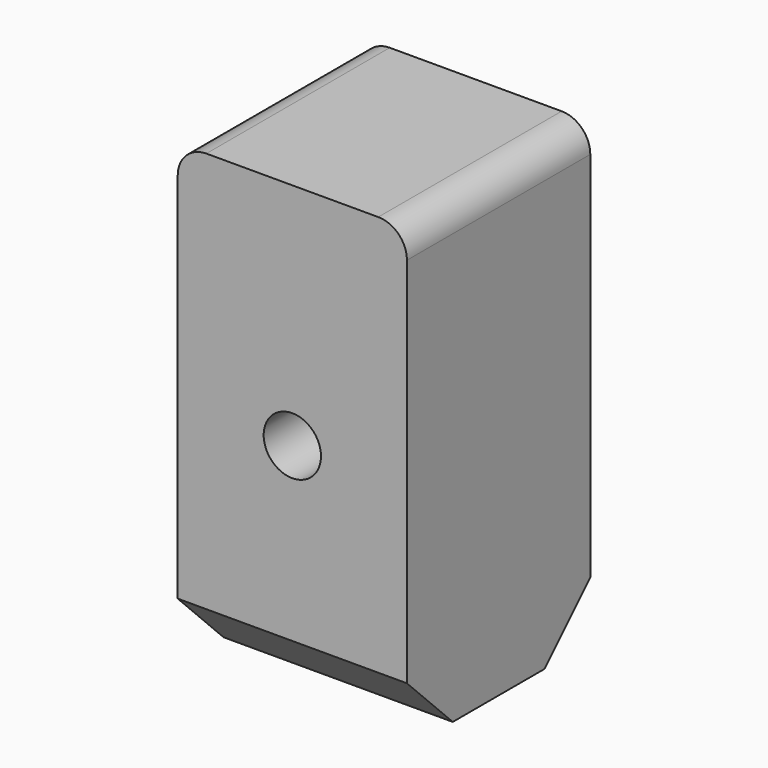
from build123d import *

# Parameters (mm, degrees)
F0_W     = 200
F0_H     = 400
F1_DEPTH = 200
F2_R     = 25
F3_DEPTH = 200.001
F4_R     = 25
F5_SIZE  = 50


with BuildPart() as f1:
    # F0 (on Front) → F1 (new body)
    with BuildSketch(Plane.XZ):
        Rectangle(F0_W, F0_H)
    extrude(amount=F1_DEPTH)

    # F2 (on face) → F3 (cut, through all)
    with BuildSketch(Plane.XZ.offset(200)):
        Circle(F2_R)
    extrude(amount=-F3_DEPTH, mode=Mode.SUBTRACT)

    # F4
    f4_edges = [f1.edges().sort_by_distance(p)[0] for p in [
        (100, -100, 200),
        (-100, -100, 200),
    ]]
    fillet(f4_edges, radius=F4_R)

    # F5
    f5_edges = [f1.edges().sort_by_distance(p)[0] for p in [
        (0, 0, -200),
        (0, -200, -200),
    ]]
    chamfer(f5_edges, length=F5_SIZE)


solid = f1.part
